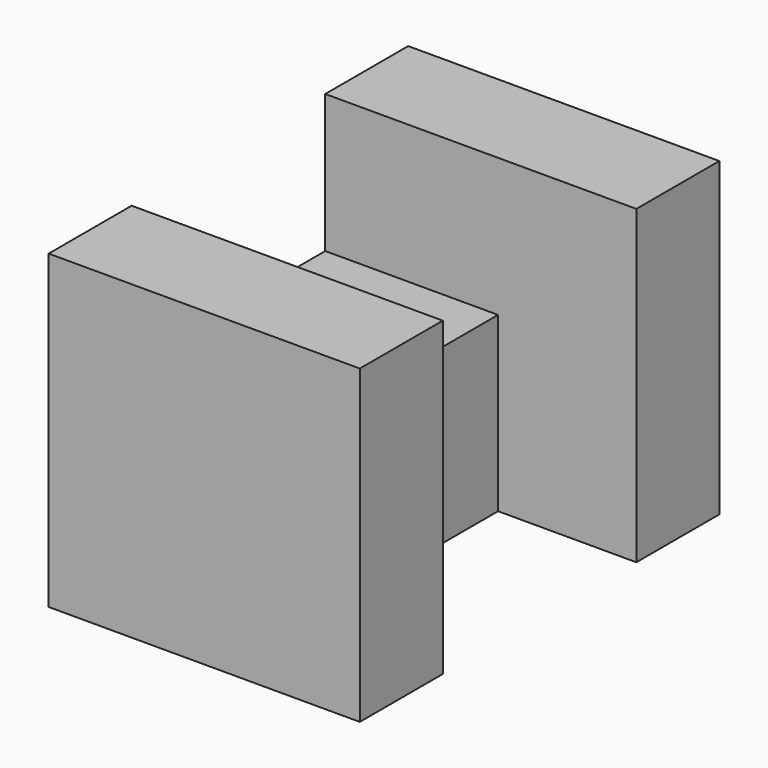
from build123d import *

# Parameters (mm, degrees)
F0_W     = 25
F0_H     = 25
F1_DEPTH = 17.5
F2_W     = 25
F2_H     = 25
F3_DEPTH = 15


with BuildPart() as f1:
    # F0 (on Front) → F1 (new body)
    with BuildSketch(Plane.XZ):
        with Locations((12.5, 12.5)):
            Rectangle(F0_W, F0_H)
    extrude(amount=F1_DEPTH)

    # F2 (on face) → F3 (join)
    with BuildSketch(Plane.XZ.offset(17.5)):
        Polygon((25, 25), (25, 0), (45, 0), (45, 45), (0, 45), (0, 25), align=None)
        with Locations((12.5, 12.5)):
            Rectangle(F2_W, F2_H)
    extrude(amount=F3_DEPTH)

    # F4: F1 across face


with BuildPart() as f1_1:
    add(f1.part)
    add(f1.part.mirror(Plane(origin=(12.5, 0, 12.5), x_dir=(1, 0, 0), z_dir=(0, 1, 0))))


solid = f1_1.part
